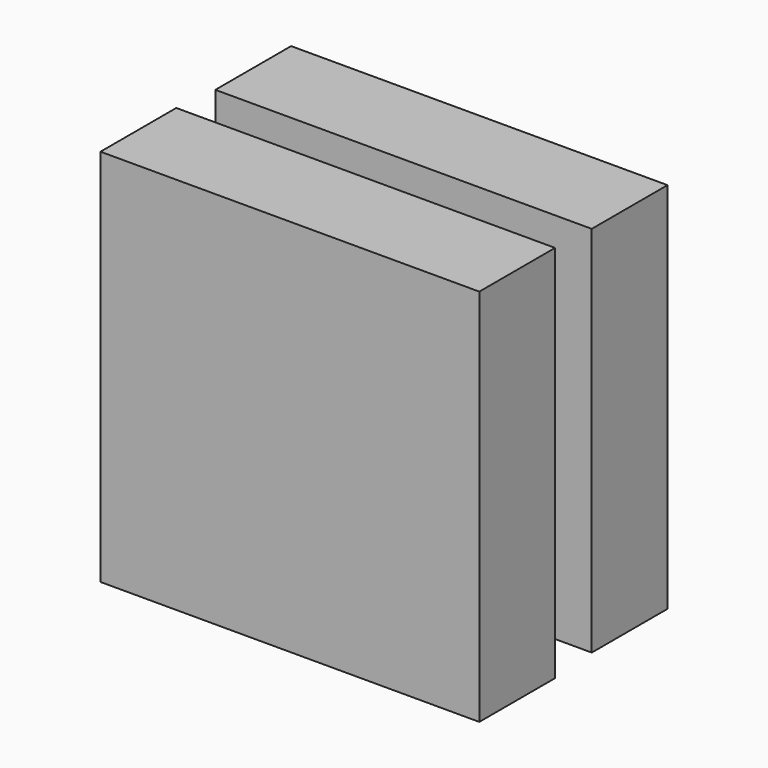
from build123d import *

# Parameters (mm, degrees)
F0_W     = 101.6
F0_H     = 101.6
F1_DEPTH = 25.4
F2_R     = 22.749581
F3_DEPTH = 12.7
F4_W     = 100.953571
F4_H     = 100.0522
F5_DEPTH = 25.4


with BuildPart() as f1:
    # F0 (on Front) → F1 (new body)
    with BuildSketch(Plane.XZ):
        with Locations((-6.761962, 6.760285)):
            Rectangle(F0_W, F0_H)
    extrude(amount=F1_DEPTH)

    # F2 (on face) → F3 (join)
    with BuildSketch(Plane(origin=(0, 0, 0), x_dir=(-1, 0, 0), z_dir=(0, 1, 0))):
        with Locations((6.085932, 4.957542)):
            Circle(F2_R)
    extrude(amount=F3_DEPTH)


with BuildPart() as f5:
    # F4 (on face) → F5 (new body)
    with BuildSketch(Plane(origin=(0, 12.7, 0), x_dir=(-1, 0, 0), z_dir=(0, 1, 0))):
        with Locations((6.761961, 6.760284)):
            Rectangle(F4_W, F4_H)
    extrude(amount=F5_DEPTH)


solid = Compound([f1.part, f5.part])
